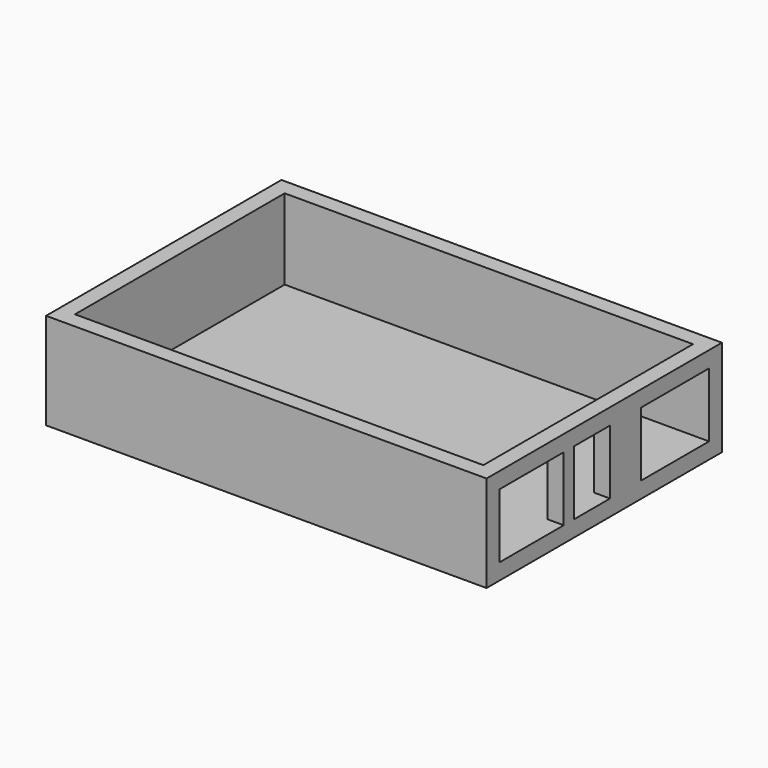
from build123d import *

# Parameters (mm, degrees)
F0_W     = 137
F0_H     = 91.5
F1_DEPTH = 30
F2_W     = 127
F2_H     = 81.5
F3_DEPTH = 25
F4_W     = 25
F4_H     = 20
F4_W_2   = 14
F4_W_3   = 26.5
F5_DEPTH = 5


with BuildPart() as f1:
    # F0 (on Top) → F1 (new body)
    with BuildSketch(Plane.XY):
        with Locations((-5.744236, 11.116833)):
            Rectangle(F0_W, F0_H)
    extrude(amount=F1_DEPTH)

    # F2 (on face) → F3 (cut)
    with BuildSketch(Plane.XY.offset(30)):
        with Locations((-5.744236, 11.116833)):
            Rectangle(F2_W, F2_H)
    extrude(amount=-F3_DEPTH, mode=Mode.SUBTRACT)

    # F4 (on face) → F5 (cut)
    with BuildSketch(Plane.YZ.offset(62.755764)):
        with Locations((-17.133167, 15)):
            Rectangle(F4_W, F4_H)
        with Locations((6.366833, 15)):
            Rectangle(F4_W_2, F4_H)
        with Locations((38.616833, 15)):
            Rectangle(F4_W_3, F4_H)
    extrude(amount=-F5_DEPTH, mode=Mode.SUBTRACT)


solid = f1.part
